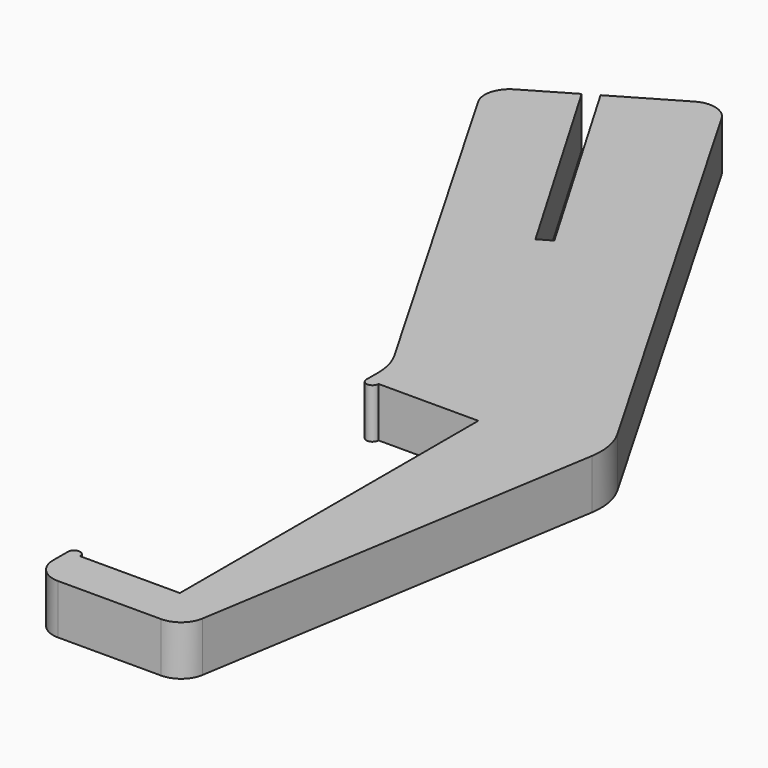
from build123d import *

# Parameters (mm, degrees)
F1_DEPTH = 4
F2_R     = 2
F3_R     = 5


with BuildPart() as f1:
    # F0 (on Top) → F1 (new body)
    with BuildSketch(Plane.XY):
        with BuildLine():
            Line((-30.803579, 38.437911), (-11.687509, 5.327906))
            Line((-11.687509, 5.327906), (-11.687509, 2.830331))
            ThreePointArc((-11.687509, 2.830331), (-11.199892, 2.342714), (-10.712276, 2.830331))
            Line((-10.712276, 2.830331), (-2.687509, 2.830331))
            Line((-2.687509, 2.830331), (-2.687509, -27.169669))
            Line((-2.687509, -27.169669), (-10.712276, -27.169669))
            ThreePointArc((-10.712276, -27.169669), (-11.199892, -26.682053), (-11.687509, -27.169669))
            Line((-11.687509, -27.169669), (-11.687509, -30.672094))
            Line((-11.687509, -30.672094), (0.312491, -30.672094))
            Line((0.312491, -30.672094), (6.158749, 5.327906))
            Line((6.158749, 5.327906), (-17.460834, 46.238223))
            Line((-17.460834, 46.238223), (-24.356114, 42.207168))
            Line((-24.356114, 42.207168), (-14.269803, 24.954133))
            Line((-14.269803, 24.954133), (-15.305761, 24.3485))
            Line((-15.305761, 24.3485), (-25.392072, 41.601536))
            Line((-25.392072, 41.601536), (-30.803579, 38.437911))
        make_face()
    extrude(amount=F1_DEPTH)

    # F2
    f2_edges = [f1.edges().sort_by_distance(p)[0] for p in [
        (0.312491, -30.672094, 2),
        (-11.687509, -30.672094, 2),
        (-17.460834, 46.238223, 2),
        (-30.803579, 38.437911, 2),
    ]]
    fillet(f2_edges, radius=F2_R)

    # F3
    f3_edges = [f1.edges().sort_by_distance(p)[0] for p in [
        (6.158749, 5.327906, 2),
        (-11.687509, 5.327906, 2),
    ]]
    fillet(f3_edges, radius=F3_R)


solid = f1.part
